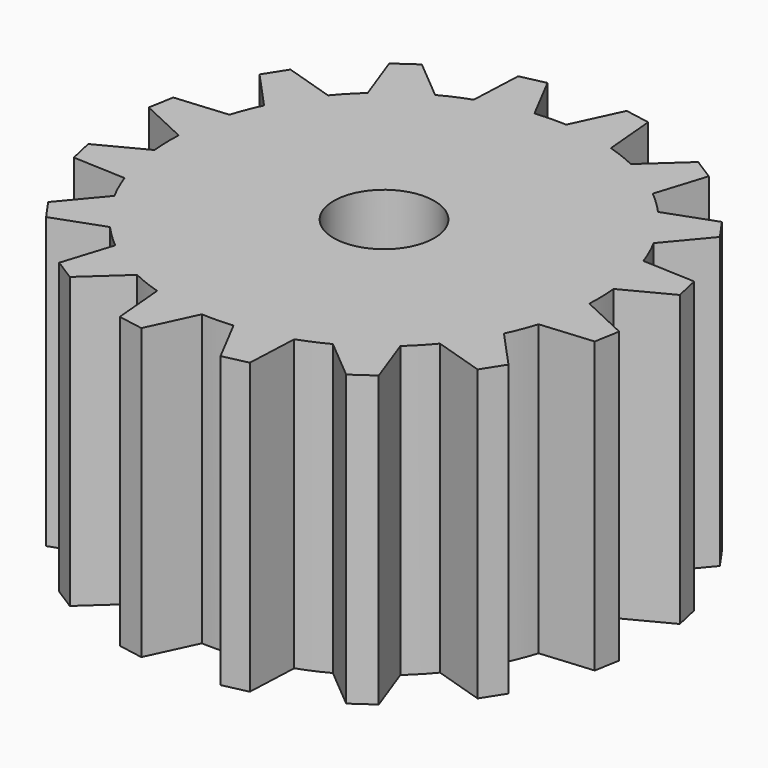
from build123d import *

# Parameters (mm, degrees)
F0_R     = 11.034718
F1_DEPTH = 63.5


with BuildPart() as f1:
    # F0 (on Top) → F1 (new body)
    with BuildSketch(Plane.XY):
        with BuildLine():
            Line((-32.078517, 45.276365), (-28.134993, 34.4225))
            ThreePointArc((-28.134993, 34.4225), (-30.590232, 32.037975), (-32.865392, 29.481061))
            Line((-32.865392, 29.481061), (-43.88094, 32.947393))
            Line((-43.88094, 32.947393), (-46.882508, 28.235875))
            Line((-46.882508, 28.235875), (-39.085573, 19.717333))
            ThreePointArc((-39.085573, 19.717333), (-40.441399, 16.57474), (-41.564885, 13.341794))
            Line((-41.564885, 13.341794), (-53.068432, 12.328799))
            Line((-53.068432, 12.328799), (-54.038499, 6.827273))
            Line((-54.038499, 6.827273), (-43.575165, 1.940925))
            ThreePointArc((-43.575165, 1.940925), (-43.625167, -1.481305), (-43.425937, -4.898097))
            Line((-43.425937, -4.898097), (-53.666173, -10.236199))
            Line((-53.666173, -10.236199), (-52.457055, -15.690175))
            Line((-52.457055, -15.690175), (-40.920271, -16.200428))
            ThreePointArc((-40.920271, -16.200428), (-39.656836, -19.381291), (-38.165222, -22.461753))
            Line((-38.165222, -22.461753), (-45.583163, -31.312284))
            Line((-45.583163, -31.312284), (-42.378938, -35.888392))
            Line((-42.378938, -35.888392), (-31.525073, -31.944868))
            ThreePointArc((-31.525073, -31.944868), (-29.140548, -34.400106), (-26.583635, -36.675266))
            Line((-26.583635, -36.675266), (-30.049966, -47.690814))
            Line((-30.049966, -47.690814), (-25.338448, -50.692383))
            Line((-25.338448, -50.692383), (-16.819906, -42.895447))
            ThreePointArc((-16.819906, -42.895447), (-13.677313, -44.251274), (-10.444367, -45.374759))
            Line((-10.444367, -45.374759), (-9.431372, -56.878306))
            Line((-9.431372, -56.878306), (-3.929846, -57.848374))
            Line((-3.929846, -57.848374), (0.956502, -47.38504))
            ThreePointArc((0.956502, -47.38504), (4.378732, -47.435041), (7.795524, -47.235812))
            Line((7.795524, -47.235812), (13.133626, -57.476047))
            Line((13.133626, -57.476047), (18.587602, -56.26693))
            Line((18.587602, -56.26693), (19.097855, -44.730146))
            ThreePointArc((19.097855, -44.730146), (22.278718, -43.46671), (25.35918, -41.975097))
            Line((25.35918, -41.975097), (34.209711, -49.393037))
            Line((34.209711, -49.393037), (38.785819, -46.188812))
            Line((38.785819, -46.188812), (34.842295, -35.334948))
            ThreePointArc((34.842295, -35.334948), (37.297533, -32.950422), (39.572693, -30.393509))
            Line((39.572693, -30.393509), (50.588241, -33.859841))
            Line((50.588241, -33.859841), (53.589809, -29.148323))
            Line((53.589809, -29.148323), (45.792874, -20.629781))
            ThreePointArc((45.792874, -20.629781), (47.1487, -17.487187), (48.272186, -14.254241))
            Line((48.272186, -14.254241), (59.775733, -13.241247))
            Line((59.775733, -13.241247), (60.7458, -7.739721))
            Line((60.7458, -7.739721), (50.282467, -2.853372))
            ThreePointArc((50.282467, -2.853372), (50.332468, 0.568858), (50.133239, 3.985649))
            Line((50.133239, 3.985649), (60.373474, 9.323751))
            Line((60.373474, 9.323751), (59.164357, 14.777727))
            Line((59.164357, 14.777727), (47.627572, 15.28798))
            ThreePointArc((47.627572, 15.28798), (46.364137, 18.468843), (44.872523, 21.549305))
            Line((44.872523, 21.549305), (52.290464, 30.399837))
            Line((52.290464, 30.399837), (49.086239, 34.975944))
            Line((49.086239, 34.975944), (38.232375, 31.03242))
            ThreePointArc((38.232375, 31.03242), (35.847849, 33.487659), (33.290936, 35.762819))
            Line((33.290936, 35.762819), (36.757268, 46.778367))
            Line((36.757268, 46.778367), (32.045749, 49.779935))
            Line((32.045749, 49.779935), (23.527208, 41.983))
            ThreePointArc((23.527208, 41.983), (20.384614, 43.338826), (17.151668, 44.462311))
            Line((17.151668, 44.462311), (16.138674, 55.965858))
            Line((16.138674, 55.965858), (10.637148, 56.935926))
            Line((10.637148, 56.935926), (5.750799, 46.472592))
            ThreePointArc((5.750799, 46.472592), (2.328569, 46.522594), (-1.088223, 46.323364))
            Line((-1.088223, 46.323364), (-6.426325, 56.5636))
            Line((-6.426325, 56.5636), (-11.8803, 55.354482))
            Line((-11.8803, 55.354482), (-12.390553, 43.817698))
            ThreePointArc((-12.390553, 43.817698), (-15.571416, 42.554263), (-18.651878, 41.062649))
            Line((-18.651878, 41.062649), (-27.50241, 48.48059))
            Line((-27.50241, 48.48059), (-32.078517, 45.276365))
        make_face()
        with Locations((3.353651, -0.456224)):
            Circle(F0_R, mode=Mode.SUBTRACT)
    extrude(amount=F1_DEPTH)


solid = f1.part
